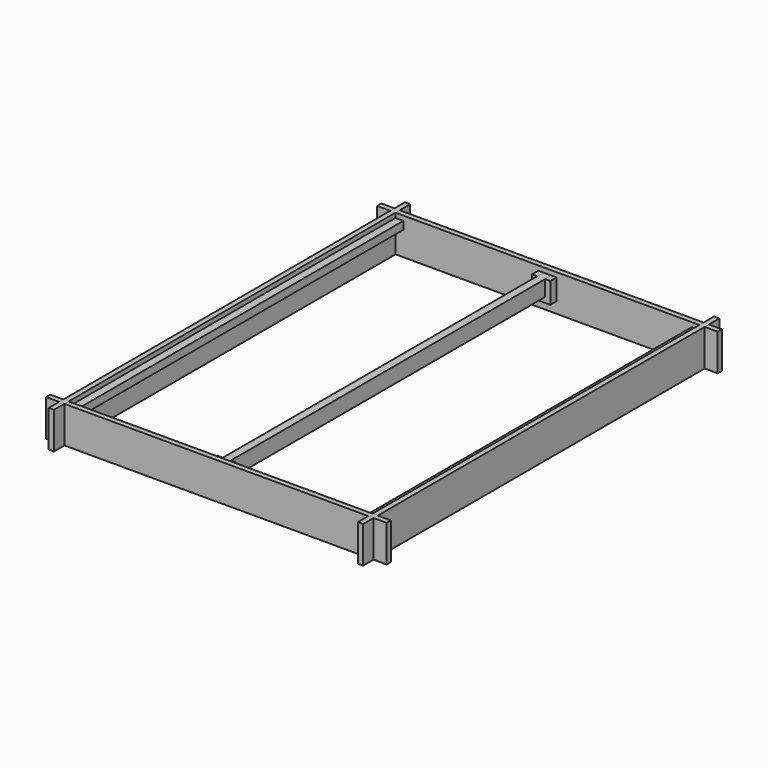
from build123d import *

# Parameters (mm, degrees)
F2_W      = 1651
F2_H      = 25.4
F3_DEPTH  = 177.8
F4_W      = 25.4
F4_H      = 2159
F5_DEPTH  = 177.8
F7_W      = 38.1
F7_H      = 1981.2
F8_DEPTH  = 38.1
F11_W     = 38.1
F11_H     = 1981.2
F12_DEPTH = 38.1
F14_DEPTH = 38.1


with BuildPart() as f3:
    # F2 (on Top) → F3 (new body)
    with BuildSketch(Plane.XY):
        with Locations((0, 1003.3)):
            Rectangle(F2_W, F2_H)
    extrude(amount=F3_DEPTH)


with BuildPart() as f5:
    # F4 (on Top) → F5 (new body)
    with BuildSketch(Plane.XY):
        with Locations((749.3, 0)):
            Rectangle(F4_W, F4_H)
    extrude(amount=F5_DEPTH)


with BuildPart() as f8:
    # F7 (on offset) → F8 (new body)
    with BuildSketch(Plane.XY.offset(117.475)):
        with Locations((717.55, 0)):
            Rectangle(F7_W, F7_H)
    extrude(amount=F8_DEPTH)


with BuildPart() as f9_1:
    # F9: instance of F3
    add(f3.part.mirror(Plane.XZ))


with BuildPart() as f10_1:
    # F10: instance of F5
    add(f5.part.mirror(Plane.YZ))


with BuildPart() as f10_2:
    # F10: instance of F8
    add(f8.part.mirror(Plane.YZ))


with BuildPart() as f12:
    # F11 (on offset) → F12 (new body, symmetric)
    with BuildSketch(Plane.XY.offset(117.475)):
        Rectangle(F11_W, F11_H)
    extrude(amount=F12_DEPTH, both=True)


with BuildPart() as f14:
    # F13 (on face) → F14 (new body)
    with BuildSketch(Plane.XZ.offset(-990.6)):
        Polygon((19.05, 155.575), (19.05, 79.375), (-19.05, 79.375), (-19.05, 155.575), (-44.45, 155.575), (-44.45, 53.975), (44.45, 53.975), (44.45, 155.575), align=None)
    extrude(amount=F14_DEPTH)


with BuildPart() as f15_1:
    # F15: instance of F14
    add(f14.part.mirror(Plane.XZ))


solid = Compound([f3.part, f5.part, f8.part, f9_1.part, f10_1.part, f10_2.part, f12.part, f14.part, f15_1.part])
